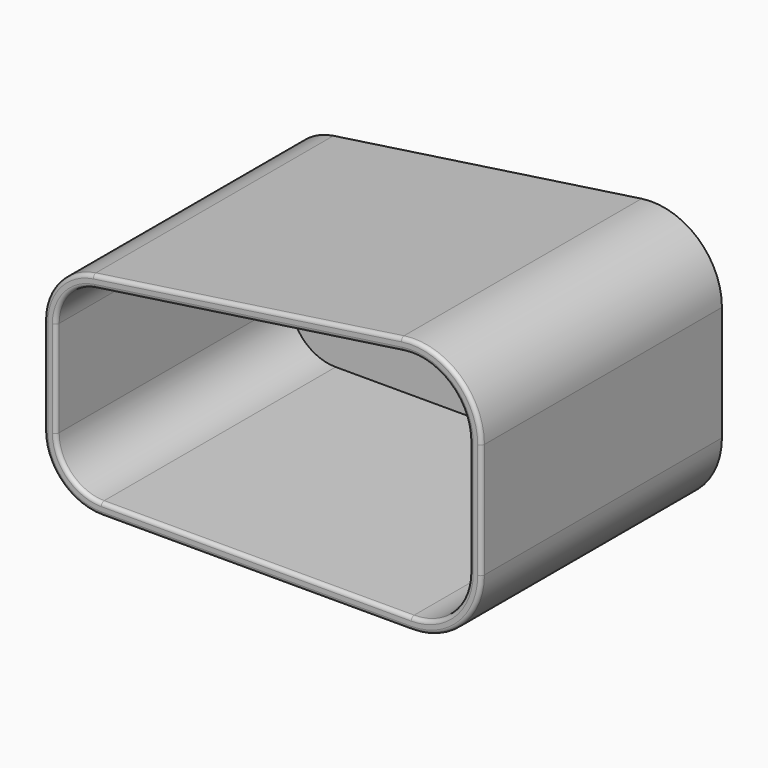
from build123d import *

# Parameters (mm, degrees)
F1_DEPTH = 1
F2_DEPTH = 40
F3_R     = 0.5


with BuildPart() as f1:
    # F0 (on Front) → F1 (new body)
    with BuildSketch(Plane.XZ):
        with BuildLine():
            ThreePointArc((-7.75, 0), (-2.269922, 2.269922), (0, 7.75))
            Line((0, 7.75), (0, 23.041173))
            ThreePointArc((0, 23.041173), (-2.679639, 28.902397), (-8.865534, 30.710468))
            Line((-8.865534, 30.710468), (-49.863639, 24.747107))
            ThreePointArc((-49.863639, 24.747107), (-53.537722, 22.735029), (-55, 18.809588))
            Line((-55, 18.809588), (-55, 6))
            ThreePointArc((-55, 6), (-53.242641, 1.757359), (-49, 0))
            Line((-49, 0), (-7.75, 0))
        make_face()
    extrude(amount=F1_DEPTH)

    # F0 (on Front) → F2 (join)
    with BuildSketch(Plane.XZ):
        with BuildLine():
            Line((-49, -1.6), (-7.75, -1.6))
            ThreePointArc((-7.75, -1.6), (-1.138552, 1.138552), (1.6, 7.75))
            Line((1.6, 7.75), (1.6, 23.041173))
            ThreePointArc((1.6, 23.041173), (-1.632855, 30.112456), (-9.095838, 32.293806))
            Line((-9.095838, 32.293806), (-50.093943, 26.330445))
            ThreePointArc((-50.093943, 26.330445), (-54.747781, 23.781813), (-56.6, 18.809588))
            Line((-56.6, 18.809588), (-56.6, 6))
            ThreePointArc((-56.6, 6), (-54.374012, 0.625988), (-49, -1.6))
        make_face()
        with BuildLine():
            Line((0, 23.041173), (0, 7.75))
            ThreePointArc((0, 7.75), (-2.269922, 2.269922), (-7.75, 0))
            Line((-7.75, 0), (-49, 0))
            ThreePointArc((-49, 0), (-53.242641, 1.757359), (-55, 6))
            Line((-55, 6), (-55, 18.809588))
            ThreePointArc((-55, 18.809588), (-53.537722, 22.735029), (-49.863639, 24.747107))
            Line((-49.863639, 24.747107), (-8.865534, 30.710468))
            ThreePointArc((-8.865534, 30.710468), (-2.679639, 28.902397), (0, 23.041173))
        make_face(mode=Mode.SUBTRACT)
    extrude(amount=F2_DEPTH)

    # F3
    f3_edges = [f1.edges().sort_by_distance(p)[0] for p in [
        (-29.59489, -40, 29.312126),
        (-29.364586, -40, 27.728787),
    ]]
    fillet(f3_edges, radius=F3_R)


solid = f1.part
